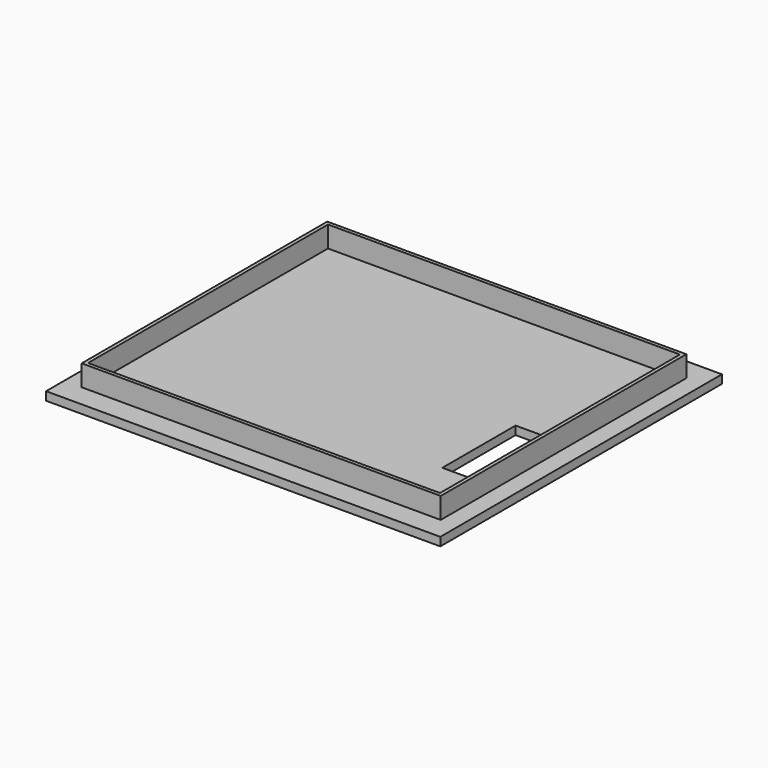
from build123d import *

# Parameters (mm, degrees)
F0_W     = 56
F0_H     = 50
F1_DEPTH = 1.2
F2_W     = 5.4
F2_H     = 13
F3_DEPTH = 1.2
F4_W     = 51
F4_H     = 43.6
F4_W_2   = 5.4
F4_H_2   = 13
F5_DEPTH = 3
F6_W     = 50
F6_H     = 42.6
F7_DEPTH = 3


with BuildPart() as f1:
    # F0 (on Top) → F1 (new body)
    with BuildSketch(Plane.XY):
        with Locations((-40.981666, -6.123801)):
            Rectangle(F0_W, F0_H)
    extrude(amount=F1_DEPTH)

    # F2 (on face) → F3 (cut)
    with BuildSketch(Plane.XY.offset(1.2)):
        with Locations((-20.466588, -11.532844)):
            Rectangle(F2_W, F2_H)
    extrude(amount=-F3_DEPTH, mode=Mode.SUBTRACT)

    # F4 (on face) → F5 (join)
    with BuildSketch(Plane.XY.offset(1.2)):
        with Locations((-40.981666, -6.123801)):
            Rectangle(F4_W, F4_H)
        with Locations((-20.466588, -11.532844)):
            Rectangle(F4_W_2, F4_H_2, mode=Mode.SUBTRACT)
    extrude(amount=F5_DEPTH)

    # F6 (on face) → F7 (cut)
    with BuildSketch(Plane.XY.offset(4.2)):
        with Locations((-40.981666, -6.123801)):
            Rectangle(F6_W, F6_H)
    extrude(amount=-F7_DEPTH, mode=Mode.SUBTRACT)


solid = f1.part
